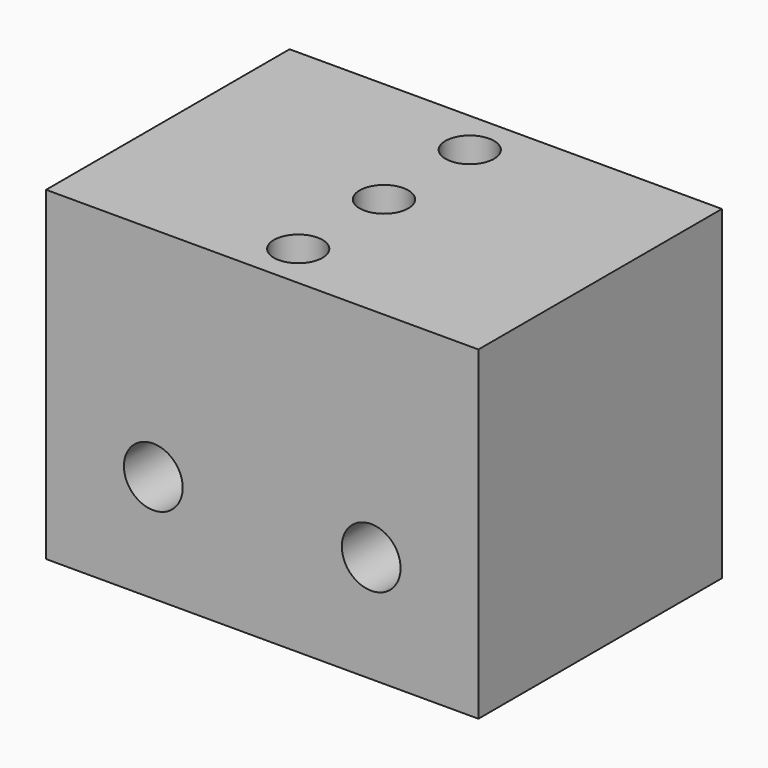
from build123d import *

# Parameters (mm, degrees)
F0_W     = 31.75
F0_H     = 23.876
F0_W_2   = 6.096
F0_H_2   = 1.5875
F1_DEPTH = 22.352
F2_DEPTH = 6.35
F3_D     = 4.318
F5_D     = 3.571875
F6_D     = 3.5814
F6_DEPTH = 4.572
F6_TIP   = 1.0759611105


with BuildPart() as f1:
    # F0 (on Front) → F1 (new body)
    with BuildSketch(Plane.XZ):
        with Locations((15.875, 11.938)):
            Rectangle(F0_W, F0_H)
        with Locations((8.780638318, 18.31975)):
            Rectangle(F0_W_2, F0_H_2, mode=Mode.SUBTRACT)
        with Locations((22.969361682, 18.31975)):
            Rectangle(F0_W_2, F0_H_2, mode=Mode.SUBTRACT)
        with Locations((8.780638318, 18.31975)):
            Rectangle(F0_W_2, F0_H_2)
        with Locations((22.969361682, 18.31975)):
            Rectangle(F0_W_2, F0_H_2)
    extrude(amount=F1_DEPTH)

    # F0 (on Front) → F2 (join)
    with BuildSketch(Plane.XZ):
        with Locations((22.969361682, 18.31975)):
            Rectangle(F0_W_2, F0_H_2)
        with Locations((8.780638318, 18.31975)):
            Rectangle(F0_W_2, F0_H_2)
    extrude(amount=-F2_DEPTH)

    # F3 (through all)
    with Locations(Plane(origin=(0, 0, 0), x_dir=(1, 0, 0), z_dir=(0, 1, 0))):
        with Locations((7.874, -7.874), (23.876, -7.874)):
            Hole(F3_D / 2)

    # F5 (through all)
    with Locations(Plane.XY.offset(23.876)):
        with Locations((15.875, -3.302), (15.875, -19.05)):
            Hole(F5_D / 2)

    # F6
    with Locations(Plane.XY.offset(23.876)):
        with Locations((15.875, -11.176)):
            Hole(F6_D / 2, depth=F6_DEPTH)
            with Locations((0, 0, -(F6_DEPTH + F6_TIP / 2))):  # 118° drill point
                Cone(0, F6_D / 2, F6_TIP, mode=Mode.SUBTRACT)


solid = f1.part
